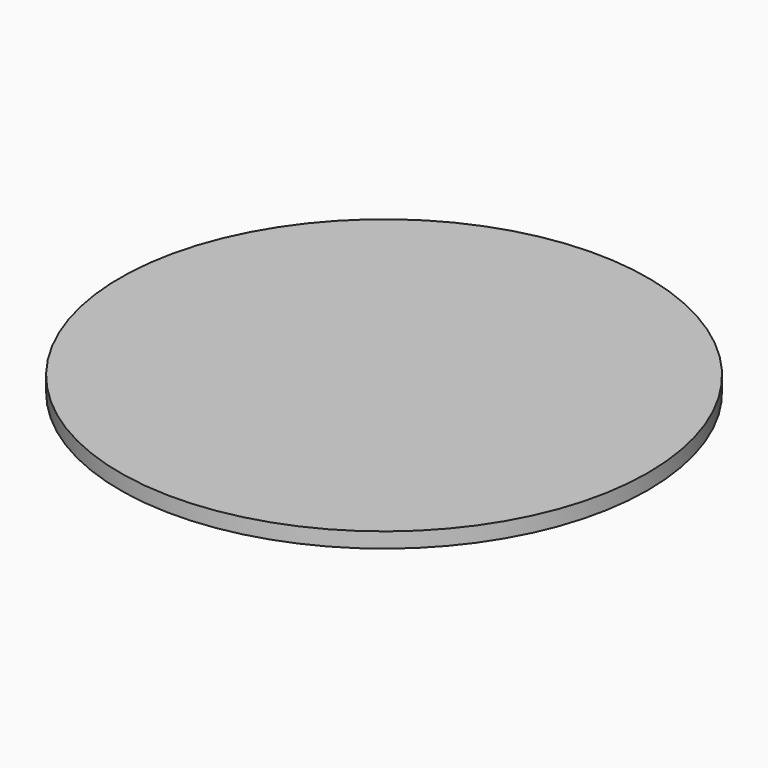
from build123d import *

# Parameters (mm, degrees)
F0_R     = 330.2
F1_DEPTH = 19.05
F2_R     = 38.1
F3_DEPTH = 6.35


with BuildPart() as f1:
    # F0 (on Top) → F1 (new body)
    with BuildSketch(Plane.XY):
        Circle(F0_R)
    extrude(amount=F1_DEPTH)

    # F2 (on Top) → F3 (join)
    with BuildSketch(Plane.XY):
        with BuildLine():
            ThreePointArc((-44.45, 0), (-31.430896, -31.430896), (0, -44.45))
            ThreePointArc((0, -44.45), (31.430896, -31.430896), (44.45, 0))
            ThreePointArc((44.45, 0), (31.430896, 31.430896), (0, 44.45))
            ThreePointArc((0, 44.45), (-31.430896, 31.430896), (-44.45, 0))
        make_face()
        Circle(F2_R, mode=Mode.SUBTRACT)
    extrude(amount=-F3_DEPTH)


solid = f1.part
